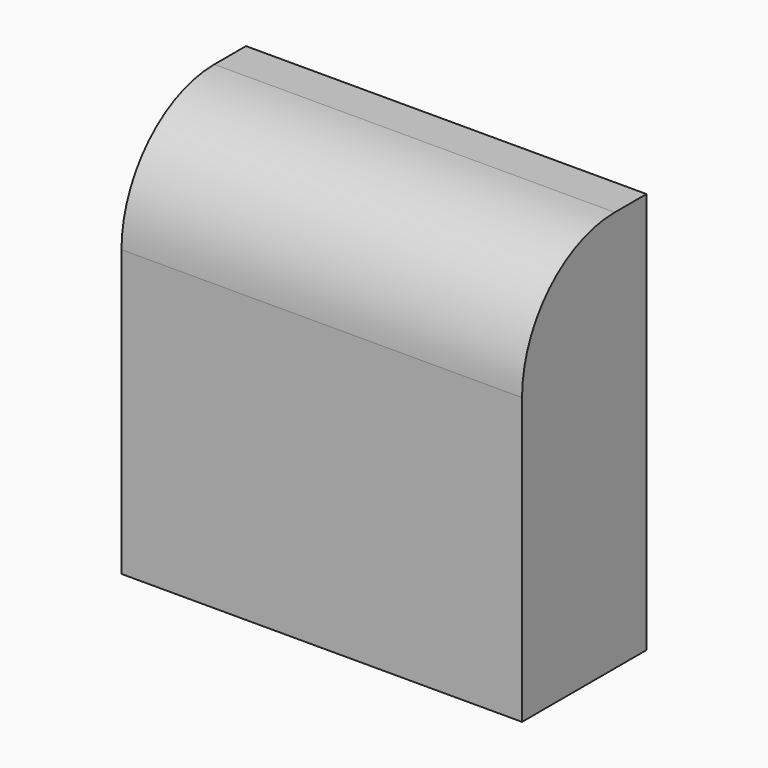
from build123d import *

# Parameters (mm, degrees)
F0_W          = 235.156074
F0_H          = 91.346458
F1_DEPTH      = 119.126
F1_DEPTH_BACK = 116.586
F2_R          = 68.066337


with BuildPart() as f1:
    # F0 (on Top) → F1 (new body, two sides)
    with BuildSketch(Plane.XY) as f1_sk:
        with Locations((6.805658, -7.393416)):
            Rectangle(F0_W, F0_H)
    extrude(amount=F1_DEPTH)
    extrude(f1_sk.sketch, amount=-F1_DEPTH_BACK)

    # F2
    f2_edges = [f1.edges().sort_by_distance(p)[0] for p in [
        (6.805658, -53.066645, 119.126),
    ]]
    fillet(f2_edges, radius=F2_R)


solid = f1.part
